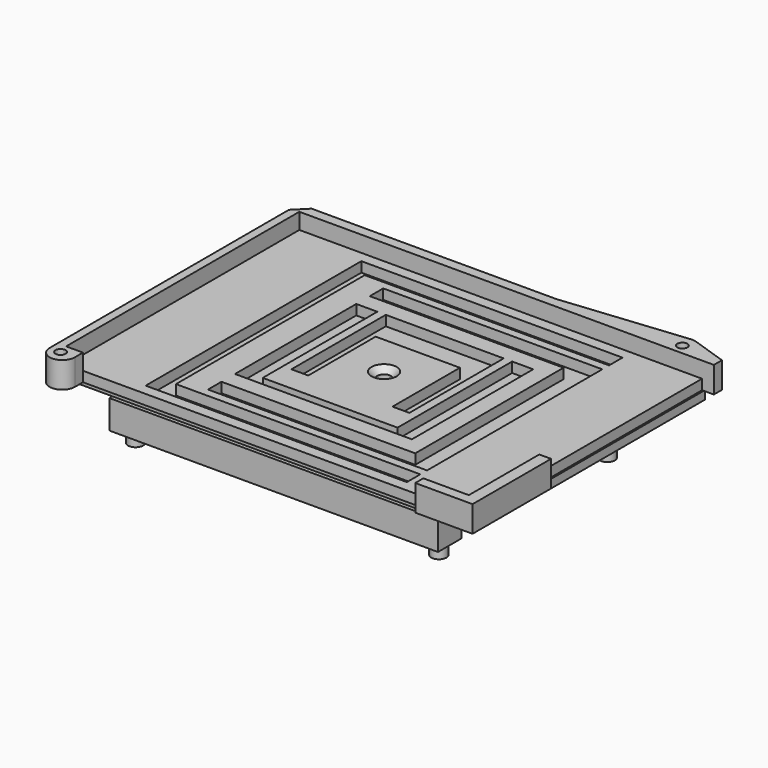
from build123d import *

# Parameters (mm, degrees)
SKETCH007_W      = 47.8
SKETCH007_H      = 34.6
PAD005_DEPTH     = 1.2
PAD006_DEPTH     = 3.1
SKETCH005_W      = 31
SKETCH005_H      = 32
POCKET002_DEPTH  = 5
SKETCH023_W      = 21
SKETCH023_H      = 18
PAD_DEPTH        = 1.2
PAD015_DEPTH     = 1.2
SKETCH013_R      = 0.6
POCKET_DEPTH     = 5
HOLE_D           = 1.6
HOLE_DEPTH       = 25
HOLE_CSINK_D     = 3
HOLE_CSINK_ANGLE = 90
PAD019_DEPTH     = 3.4
SKETCH_R         = 0.9
PAD020_DEPTH     = 1.6
SKETCH037_W      = 11.524262
SKETCH037_H      = 6
PAD021_DEPTH     = 1.5
SKETCH036_W      = 11.0243
SKETCH036_H      = 5.5
PAD022_DEPTH     = 1
SKETCH038_W      = 14.5455
SKETCH038_H      = 10
PAD023_DEPTH     = 1.8
SKETCH039_W      = 48.2
SKETCH039_H      = 33.8
PAD024_DEPTH     = 1
SKETCH040_R      = 0.8
POCKET007_DEPTH  = 5


with BuildPart() as plastic_tek1_display_interface_top_part:
    # Sketch007 (on DatumPlane) → Pad005 (new body)
    with BuildSketch(Plane.XY.offset(5.9)):
        with Locations((1.5, 0)):
            Rectangle(SKETCH007_W, SKETCH007_H)
    extrude(amount=PAD005_DEPTH)

    # Sketch008 (on DatumPlane) → Pad006 (join)
    with BuildSketch(Plane.XY.offset(5.9)):
        with BuildLine():
            Line((-22.4, -17.3), (-22.4, 17.3))
            Line((-22.4, 17.3), (-17.7, 17.3))
            Line((-17.7, 17.3), (-17.3, 17.3))
            Line((-17.3, 17.3), (17.3, 17.3))
            Line((17.3, 17.3), (17.7, 17.3))
            Line((17.7, 17.3), (25.4, 17.3))
            Line((25.4, 17.3), (26.8, 17.3))
            Line((26.8, 18.5), (26.8, 17.3))
            Line((22.578723, 19.921557), (26.8, 18.5))
            ThreePointArc((22.578723, 19.921557), (22.267893, 19.990574), (21.949498, 19.992431))
            Line((21.949498, 19.992431), (7.15, 18.5))
            Line((-21.9, 18.5), (7.15, 18.5))
            Line((-23.4, 17), (-21.9, 18.5))
            Line((-23.4, -18.5), (-23.4, 17))
            ThreePointArc((-23.4, -18.5), (-21.9, -20), (-20.4, -18.5))
            Line((-20.4, -18.5), (-20.4, -17.3))
            Line((-21.3, -17.3), (-20.4, -17.3))
            Line((-21.7, -17.3), (-21.3, -17.3))
            Line((-22.4, -17.3), (-21.7, -17.3))
        make_face()
        Polygon((20, -18.5), (26.8, -18.5), (26.8, -6.85), (25.4, -6.85), (25.4, -17.3), (21.7, -17.3), (21.3, -17.3), (20, -17.3), align=None)
    extrude(amount=PAD006_DEPTH)

    # Sketch005 (on DatumPlane) → Pocket002 (cut)
    with BuildSketch(Plane.XY.offset(5.9)):
        with Locations((1.5, 0)):
            Rectangle(SKETCH005_W, SKETCH005_H)
    extrude(amount=POCKET002_DEPTH, mode=Mode.SUBTRACT)

    # Sketch023 (on DatumPlane) → Pad (join)
    with BuildSketch(Plane.XY.offset(5.9)):
        Polygon((-12, -14), (-12, 14), (-9, 14), (17, 14), (17, 13), (-9, 13), (-9, 11), (14, 11), (14, -11), (-9, -11), (-9, -13), (17, -13), (17, -14), (-9, -14), align=None)
        with Locations((1.5, 0)):
            Rectangle(SKETCH023_W, SKETCH023_H, mode=Mode.SUBTRACT)
    extrude(amount=PAD_DEPTH)

    # Sketch020 (on DatumPlane) → Pad015 (join)
    with BuildSketch(Plane.XY.offset(5.9)):
        Polygon((-3.5, -5), (-3.5, 5), (6.5, 5), (6.5, -5), (8.5, -5), (8.5, 10), (9.5, 10), (9.5, -8), (-6.5, -8), (-6.5, 10), (-5.5, 10), (-5.5, -5), align=None)
    extrude(amount=PAD015_DEPTH)

    # Sketch013 (on DatumPlane) → Pocket (cut)
    with BuildSketch(Plane.XY.offset(7.1)):
        with Locations((22.1, 18.5)):
            Circle(SKETCH013_R)
        with Locations((-22.1, -18.5)):
            Circle(SKETCH013_R)
    extrude(amount=POCKET_DEPTH, mode=Mode.SUBTRACT)

    # Hole
    with Locations(Plane.XY.offset(7.1)):
        with Locations((1.5, 0)):
            CounterSinkHole(HOLE_D / 2, HOLE_CSINK_D / 2, depth=HOLE_DEPTH, counter_sink_angle=HOLE_CSINK_ANGLE)


with BuildPart() as body002:
    # Sketch029 → Pad019 (new body)
    with BuildSketch(Plane.XY):
        Polygon((-19.5, -14.5), (-19.5, 14.5), (19.5, 14.5), (19.5, 11), (-16, 11), (-16, -11), (19.5, -11), (19.5, -14.5), align=None)
    extrude(amount=PAD019_DEPTH)

    # Sketch → Pad020 (join)
    with BuildSketch(Plane.XY):
        with Locations((-18, 12.5)):
            Circle(SKETCH_R)
        with Locations((-18, -12.5)):
            Circle(SKETCH_R)
        with Locations((18, -12.5)):
            Circle(SKETCH_R)
        with Locations((18, 12.5)):
            Circle(SKETCH_R)
    extrude(amount=-PAD020_DEPTH)

    # Sketch037 (on DatumPlane) → Pad021 (join)
    with BuildSketch(Plane.XY.offset(3.4)):
        Polygon((-16.5, 11), (-6.262131, 4.405245), (-6.262131, -4.405245), (-16.5, -11), (-14.653374, -11), (-5.338818, -5), (8.338818, -5), (17.653374, -11), (19.5, -11), (9.262131, -4.405245), (9.262131, 4.405245), (19.5, 11), (17.653374, 11), (8.338818, 5), (-5.338818, 5), (-14.653374, 11), align=None)
        with Locations((1.5, 0)):
            Rectangle(SKETCH037_W, SKETCH037_H, mode=Mode.SUBTRACT)
    extrude(amount=-PAD021_DEPTH)


with BuildPart() as body:
    # Sketch036 (on DatumPlane) → Pad022 (new body)
    with BuildSketch(Plane.XY.offset(3.4)):
        with Locations((1.5, 0)):
            Rectangle(SKETCH036_W, SKETCH036_H)
    extrude(amount=-PAD022_DEPTH)

    # Sketch038 (on DatumPlane) → Pad023 (join)
    with BuildSketch(Plane.XY.offset(3.4)):
        with Locations((1.5, 0)):
            Rectangle(SKETCH038_W, SKETCH038_H)
    extrude(amount=PAD023_DEPTH)

    # Sketch039 (on DatumPlane) → Pad024 (join)
    with BuildSketch(Plane.XY.offset(5.9)):
        with Locations((1.5, 0.6)):
            Rectangle(SKETCH039_W, SKETCH039_H)
    extrude(amount=-PAD024_DEPTH)

    # Sketch040 (on DatumPlane) → Pocket007 (cut)
    with BuildSketch(Plane.XY.offset(5.9)):
        with Locations((1.5, 0)):
            Circle(SKETCH040_R)
    extrude(amount=-POCKET007_DEPTH, mode=Mode.SUBTRACT)


solid = Compound([plastic_tek1_display_interface_top_part.part, body002.part, body.part])
